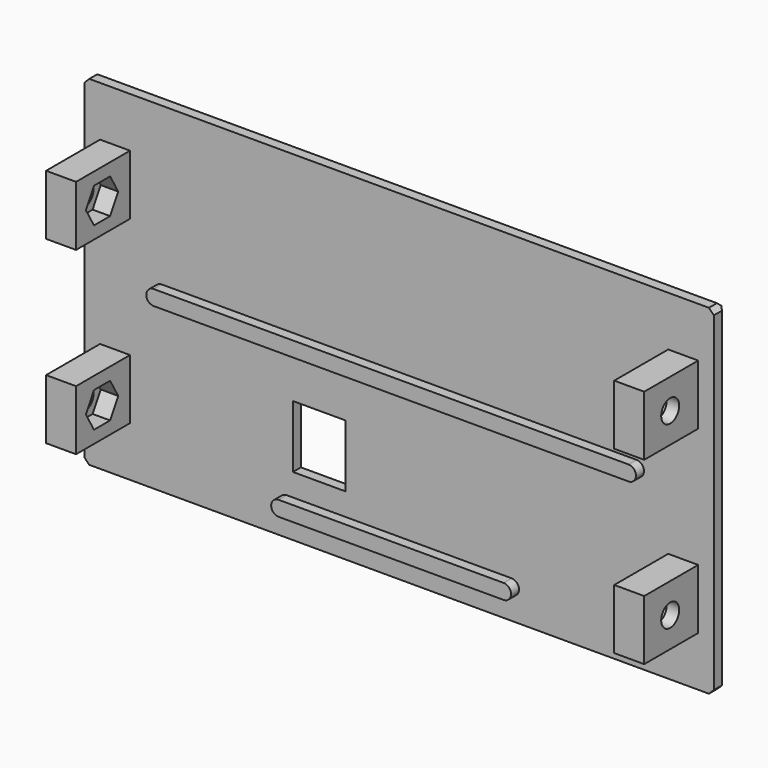
from build123d import *

# Parameters (mm, degrees)
SKETCH018_W             = 126
SKETCH018_H             = 68
PAD008_DEPTH            = 3
SKETCH019_W             = 6
SKETCH019_H             = 12
PAD009_DEPTH            = 13.5
SKETCH020_R             = 2.25
POCKET009_DEPTH         = 122.851
POCKET010_DEPTH         = 3.5
SKETCH022_W             = 10.5
SKETCH022_H             = 12.5
POCKET011_DEPTH         = 16.501
CHAMFER002_SIZE         = 1
CHAMFER007_SIZE         = 1
CHAMFER009_SIZE         = 1
PAD015_DEPTH            = 2
BODY005_PLACEMENT_ANGLE = 180


with BuildPart() as part:
    # Sketch018 → Pad008 (new body)
    with BuildSketch(Plane.XZ):
        with Locations((0, 34)):
            Rectangle(SKETCH018_W, SKETCH018_H)
    extrude(amount=PAD008_DEPTH)

    # Sketch019 (on Face5 of Pad008) → Pad009 (join)
    with BuildSketch(Plane(origin=(0, 0, 0), x_dir=(1, 0, 0), z_dir=(0, 1, 0))):
        with Locations((-56.85, -16)):
            Rectangle(SKETCH019_W, SKETCH019_H)
        with Locations((-56.85, -52)):
            Rectangle(SKETCH019_W, SKETCH019_H)
    pad009 = extrude(amount=PAD009_DEPTH)

    # Mirrored004: Pad009 across YZ
    add(pad009.mirror(Plane.YZ))

    # Sketch020 (on Face22 of Mirrored004) → Pocket009 (cut, through all)
    with BuildSketch(Plane(origin=(59.85, 0, 0), x_dir=(0, 0, 1), z_dir=(1, 0, 0))):
        with Locations((16, -7)):
            Circle(SKETCH020_R)
        with Locations((52, -7)):
            Circle(SKETCH020_R)
    extrude(amount=-POCKET009_DEPTH, mode=Mode.SUBTRACT)

    # Sketch021 (on Face10 of Pocket009) → Pocket010 (cut)
    with BuildSketch(Plane(origin=(-53.85, 0, 0), x_dir=(0, 0, 1), z_dir=(1, 0, 0))):
        Polygon((19.5, -9.020726), (19.5, -4.979274), (16, -2.958548), (12.5, -4.979274), (12.5, -9.020726), (16, -11.041452), align=None)
        Polygon((55.5, -9.020726), (55.5, -4.979274), (52, -2.958548), (48.5, -4.979274), (48.5, -9.020726), (52, -11.041452), align=None)
    pocket010 = extrude(amount=-POCKET010_DEPTH, mode=Mode.SUBTRACT)

    # Sketch022 (on Face5 of Pocket010) → Pocket011 (cut, through all)
    with BuildSketch(Plane.XZ.offset(3)):
        with Locations((16, 18.25)):
            Rectangle(SKETCH022_W, SKETCH022_H)
    extrude(amount=-POCKET011_DEPTH, mode=Mode.SUBTRACT)

    # Chamfer002
    chamfer002_edges = [part.edges().sort_by_distance(p)[0] for p in [
        (0, -3, 68),
        (-63, -3, 34),
        (63, -3, 34),
        (0, -3, 0),
        (16, -3, 24.5),
        (21.25, -3, 18.25),
        (16, -3, 12),
        (10.75, -3, 18.25),
    ]]
    chamfer(chamfer002_edges, length=CHAMFER002_SIZE)

    # Chamfer007
    chamfer007_edges = [part.edges().sort_by_distance(p)[0] for p in [
        (-63, -1, 68),
        (63, -1, 68),
    ]]
    chamfer(chamfer007_edges, length=CHAMFER007_SIZE)

    # Chamfer009
    chamfer009_edges = [part.edges().sort_by_distance(p)[0] for p in [
        (-63, -1, 0),
        (63, -1, 0),
    ]]
    chamfer(chamfer009_edges, length=CHAMFER009_SIZE)

    # Mirrored006: Pocket010 across YZ
    add(pocket010.mirror(Plane.YZ), mode=Mode.SUBTRACT)

    # Sketch034 (on Face1 of Mirrored006) → Pad015 (join)
    with BuildSketch(Plane(origin=(0, 0, 0), x_dir=(1, 0, 0), z_dir=(0, 1, 0))):
        with BuildLine():
            ThreePointArc((-22.5, -4.5), (-24, -6), (-22.5, -7.5))
            Line((-22.5, -7.5), (22.5, -7.5))
            ThreePointArc((22.5, -7.5), (24, -6), (22.5, -4.5))
            Line((-22.5, -4.5), (22.5, -4.5))
        make_face()
        with BuildLine():
            ThreePointArc((-47.5, -33.5), (-49, -35), (-47.5, -36.5))
            Line((-47.5, -36.5), (47.5, -36.5))
            ThreePointArc((47.5, -36.5), (49, -35), (47.5, -33.5))
            Line((-47.5, -33.5), (47.5, -33.5))
        make_face()
    extrude(amount=PAD015_DEPTH)


with BuildPart() as part_1:
    # Body005 placement: moved
    add(part.part.moved(Location((0, 66.95, 0))).rotate(Axis((0, 66.95, 0), (0, 0, 1)), BODY005_PLACEMENT_ANGLE))


solid = part_1.part
